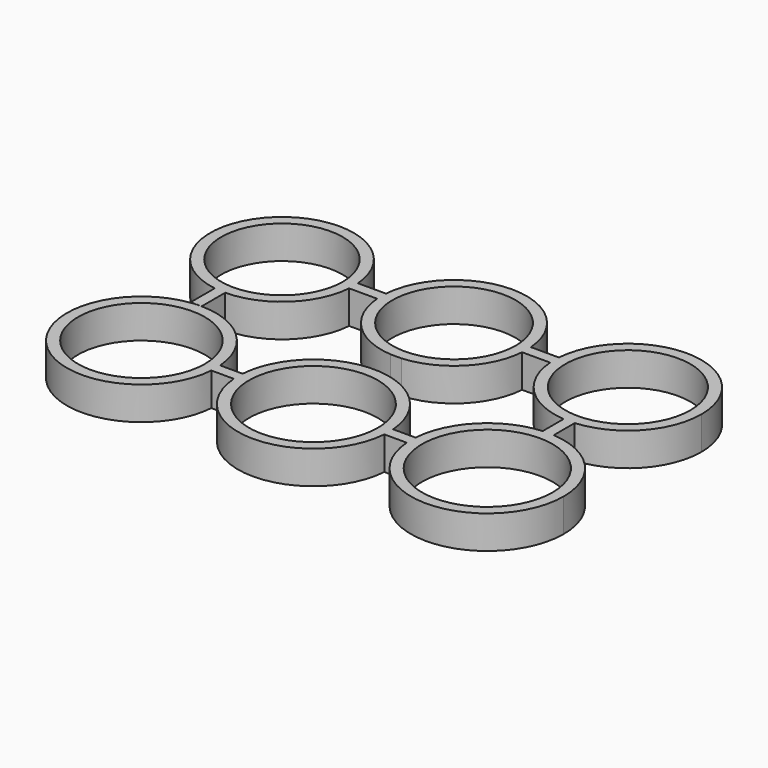
from build123d import *

# Parameters (mm, degrees)
F0_R     = 11
F0_R_2   = 11.165
F0_R_3   = 11.5
F0_R_4   = 11.33
F0_R_5   = 11.665
F0_R_6   = 11.835
F1_DEPTH = 6


with BuildPart() as f1:
    # F0 (on Top) → F1 (new body)
    with BuildSketch(Plane.XY):
        with BuildLine():
            ThreePointArc((-18.2035186032, 14.6643022569), (-18.17463322, 15.1639314737), (-18.165, 15.6643022569))
            ThreePointArc((-18.165, 15.6643022569), (-18.17463322, 16.1646730401), (-18.2035186032, 16.6643022569))
            Line((-18.2035186032, 16.6643022569), (-18.2035186032, 14.6643022569))
        make_face()
        with BuildLine():
            ThreePointArc((-18.2035186032, 16.6643022569), (-18.17463322, 16.1646730401), (-18.165, 15.6643022569))
            ThreePointArc((-18.165, 15.6643022569), (-18.17463322, 15.1639314737), (-18.2035186032, 14.6643022569))
            Line((-18.2035186032, 14.6643022569), (-13.1269655671, 14.6643022569))
            ThreePointArc((-13.1269655671, 14.6643022569), (-13.165, 15.6643022569), (-13.1269655671, 16.6643022569))
            Line((-13.1269655671, 16.6643022569), (-18.2035186032, 16.6643022569))
        make_face()
        with BuildLine():
            Line((-18.2035186032, 14.6643022569), (-18.2035186032, 16.6643022569))
            ThreePointArc((-18.2035186032, 16.6643022569), (-40.0351607695, 25.1679987969), (-33.0553946912, 2.8024824824))
            Line((-33.0553946912, 2.8024824824), (-31.0553946912, 2.8024824824))
            Line((-31.0553946912, 2.8024824824), (-31.0553946912, 2.664764316))
            ThreePointArc((-31.0553946912, 2.664764316), (-22.2931030994, 6.1622264108), (-18.2035186032, 14.6643022569))
        make_face()
        with Locations((-31.165, 15.6643022569)):
            Circle(F0_R, mode=Mode.SUBTRACT)
        with BuildLine():
            Line((-31.0553946912, 2.8024824824), (-33.0553946912, 2.8024824824))
            ThreePointArc((-33.0553946912, 2.8024824824), (-32.0580533464, 2.6950133126), (-31.0553946912, 2.664764316))
            Line((-31.0553946912, 2.664764316), (-31.0553946912, 2.8024824824))
        make_face()
        with BuildLine():
            ThreePointArc((-31.0553946912, 2.664764316), (-32.0580533464, 2.6950133126), (-33.0553946912, 2.8024824824))
            Line((-33.0553946912, 2.8024824824), (-33.0553946912, -2.6661426884))
            Line((-33.0553946912, -2.6661426884), (-31.2746053088, -2.6661426884))
            ThreePointArc((-31.2746053088, -2.6661426884), (-31.165, -2.6656977431), (-31.0553946912, -2.6661426884))
            Line((-31.0553946912, -2.6661426884), (-31.0553946912, 2.664764316))
        make_face()
        with BuildLine():
            Line((-13.1269655671, 14.6643022569), (-13.1269655671, 16.6643022569))
            ThreePointArc((-13.1269655671, 16.6643022569), (-13.165, 15.6643022569), (-13.1269655671, 14.6643022569))
        make_face()
        with BuildLine():
            ThreePointArc((13.1269655671, 16.6643022569), (0, 28.8293022569), (-13.1269655671, 16.6643022569))
            Line((-13.1269655671, 16.6643022569), (-13.1269655671, 14.6643022569))
            ThreePointArc((-13.1269655671, 14.6643022569), (-9.3090607743, 6.3552414826), (-1, 2.5373366898))
            Line((-1, 2.5373366898), (1, 2.5373366898))
            ThreePointArc((1, 2.5373366898), (9.3090607743, 6.3552414826), (13.1269655671, 14.6643022569))
            Line((13.1269655671, 14.6643022569), (13.1269655671, 16.6643022569))
        make_face()
        with Locations((0, 15.6643022569)):
            Circle(F0_R_2, mode=Mode.SUBTRACT)
        with BuildLine():
            Line((18.2025623003, 16.6643022569), (13.1269655671, 16.6643022569))
            ThreePointArc((13.1269655671, 16.6643022569), (13.1554879554, 16.1646637807), (13.165, 15.6643022569))
            ThreePointArc((13.165, 15.6643022569), (13.1554879554, 15.1639407331), (13.1269655671, 14.6643022569))
            Line((13.1269655671, 14.6643022569), (18.2025623003, 14.6643022569))
            ThreePointArc((18.2025623003, 14.6643022569), (18.165, 15.6643022569), (18.2025623003, 16.6643022569))
        make_face()
        with BuildLine():
            ThreePointArc((13.165, 15.6643022569), (13.1554879554, 16.1646637807), (13.1269655671, 16.6643022569))
            Line((13.1269655671, 16.6643022569), (13.1269655671, 14.6643022569))
            ThreePointArc((13.1269655671, 14.6643022569), (13.1554879554, 15.1639407331), (13.165, 15.6643022569))
        make_face()
        with BuildLine():
            Line((-31.2746053088, -2.6661426884), (-31.0553946912, -2.6661426884))
            ThreePointArc((-31.0553946912, -2.6661426884), (-31.165, -2.6656977431), (-31.2746053088, -2.6661426884))
        make_face()
        with BuildLine():
            ThreePointArc((-17.7020879822, -15.1656977431), (-21.9393278951, -6.3098885824), (-31.0553946912, -2.6661426884))
            Line((-31.0553946912, -2.6661426884), (-31.2746053088, -2.6661426884))
            ThreePointArc((-31.2746053088, -2.6661426884), (-41.0208091607, -25.391369848), (-17.7020879822, -17.1656977431))
            Line((-17.7020879822, -17.1656977431), (-17.7020879822, -15.1656977431))
        make_face()
        with Locations((-31.165, -16.1656977431)):
            Circle(F0_R_3, mode=Mode.SUBTRACT)
        with BuildLine():
            Line((18.2025623003, 14.6643022569), (18.2025623003, 16.6643022569))
            ThreePointArc((18.2025623003, 16.6643022569), (18.165, 15.6643022569), (18.2025623003, 14.6643022569))
        make_face()
        with BuildLine():
            ThreePointArc((44.825, 15.6643022569), (31.9953526073, 28.9849083718), (18.2025623003, 16.6643022569))
            Line((18.2025623003, 16.6643022569), (18.2025623003, 14.6643022569))
            ThreePointArc((18.2025623003, 14.6643022569), (22.0692666068, 6.2385688637), (30.495, 2.3718645572))
            Line((30.495, 2.3718645572), (32.495, 2.3718645572))
            ThreePointArc((32.495, 2.3718645572), (41.2678936349, 6.5990140651), (44.825, 15.6643022569))
        make_face()
        with Locations((31.495, 15.6643022569)):
            Circle(F0_R_4, mode=Mode.SUBTRACT)
        with BuildLine():
            Line((-13.6283610533, -15.1656977431), (-17.7020879822, -15.1656977431))
            ThreePointArc((-17.7020879822, -15.1656977431), (-17.6742751818, -15.6653539817), (-17.665, -16.1656977431))
            ThreePointArc((-17.665, -16.1656977431), (-17.6742751818, -16.6660415045), (-17.7020879822, -17.1656977431))
            Line((-17.7020879822, -17.1656977431), (-13.6283610533, -17.1656977431))
            ThreePointArc((-13.6283610533, -17.1656977431), (-13.665, -16.1656977431), (-13.6283610533, -15.1656977431))
        make_face()
        with BuildLine():
            ThreePointArc((-17.665, -16.1656977431), (-17.6742751818, -15.6653539817), (-17.7020879822, -15.1656977431))
            Line((-17.7020879822, -15.1656977431), (-17.7020879822, -17.1656977431))
            ThreePointArc((-17.7020879822, -17.1656977431), (-17.6742751818, -16.6660415045), (-17.665, -16.1656977431))
        make_face()
        with BuildLine():
            Line((1, -2.5373366898), (-1, -2.5373366898))
            ThreePointArc((-1, -2.5373366898), (-9.6626141649, -6.5030835782), (-13.6283610533, -15.1656977431))
            Line((-13.6283610533, -15.1656977431), (-13.6283610533, -17.1656977431))
            ThreePointArc((-13.6283610533, -17.1656977431), (0, -29.8306977431), (13.6283610533, -17.1656977431))
            Line((13.6283610533, -17.1656977431), (13.6283610533, -15.1656977431))
            ThreePointArc((13.6283610533, -15.1656977431), (9.6626141649, -6.5030835782), (1, -2.5373366898))
        make_face()
        with Locations((0, -16.1656977431)):
            Circle(F0_R_5, mode=Mode.SUBTRACT)
        with BuildLine():
            Line((-13.6283610533, -17.1656977431), (-13.6283610533, -15.1656977431))
            ThreePointArc((-13.6283610533, -15.1656977431), (-13.665, -16.1656977431), (-13.6283610533, -17.1656977431))
        make_face()
        with BuildLine():
            Line((32.495, -2.3668852942), (32.495, 2.3718645572))
            ThreePointArc((32.495, 2.3718645572), (31.495, 2.3343022569), (30.495, 2.3718645572))
            Line((30.495, 2.3718645572), (30.495, -2.3668852942))
            ThreePointArc((30.495, -2.3668852942), (31.495, -2.3306977431), (32.495, -2.3668852942))
        make_face()
        with BuildLine():
            ThreePointArc((30.495, 2.3718645572), (31.495, 2.3343022569), (32.495, 2.3718645572))
            Line((32.495, 2.3718645572), (30.495, 2.3718645572))
        make_face()
        with BuildLine():
            Line((17.6961875511, -15.1656977431), (13.6283610533, -15.1656977431))
            ThreePointArc((13.6283610533, -15.1656977431), (13.6558371914, -15.6653622526), (13.665, -16.1656977431))
            ThreePointArc((13.665, -16.1656977431), (13.6558371914, -16.6660332337), (13.6283610533, -17.1656977431))
            Line((13.6283610533, -17.1656977431), (17.6961875511, -17.1656977431))
            ThreePointArc((17.6961875511, -17.1656977431), (17.66, -16.1656977431), (17.6961875511, -15.1656977431))
        make_face()
        with BuildLine():
            ThreePointArc((13.665, -16.1656977431), (13.6558371914, -15.6653622526), (13.6283610533, -15.1656977431))
            Line((13.6283610533, -15.1656977431), (13.6283610533, -17.1656977431))
            ThreePointArc((13.6283610533, -17.1656977431), (13.6558371914, -16.6660332337), (13.665, -16.1656977431))
        make_face()
        with BuildLine():
            Line((30.495, -2.3668852942), (32.495, -2.3668852942))
            ThreePointArc((32.495, -2.3668852942), (31.495, -2.3306977431), (30.495, -2.3668852942))
        make_face()
        with BuildLine():
            ThreePointArc((45.33, -16.1656977431), (41.6252079199, -6.7430594448), (32.495, -2.3668852942))
            Line((32.495, -2.3668852942), (30.495, -2.3668852942))
            ThreePointArc((30.495, -2.3668852942), (21.7121776823, -6.3828754254), (17.6961875511, -15.1656977431))
            Line((17.6961875511, -15.1656977431), (17.6961875511, -17.1656977431))
            ThreePointArc((17.6961875511, -17.1656977431), (31.9953272776, -29.9916478955), (45.33, -16.1656977431))
        make_face()
        with Locations((31.495, -16.1656977431)):
            Circle(F0_R_6, mode=Mode.SUBTRACT)
        with BuildLine():
            Line((17.6961875511, -17.1656977431), (17.6961875511, -15.1656977431))
            ThreePointArc((17.6961875511, -15.1656977431), (17.66, -16.1656977431), (17.6961875511, -17.1656977431))
        make_face()
    extrude(amount=F1_DEPTH)


solid = f1.part
